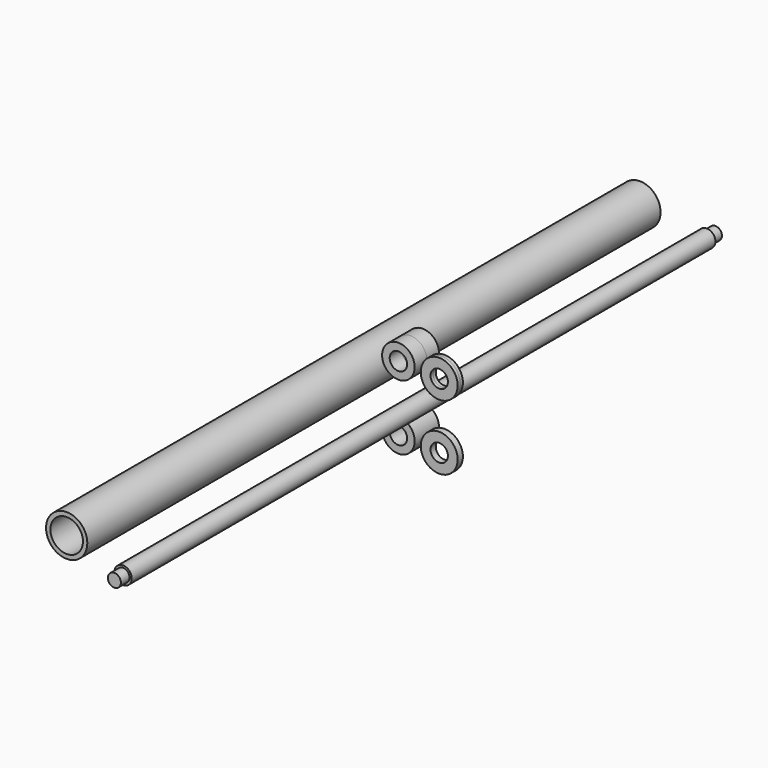
from build123d import *

# Parameters (mm, degrees)
F0_R      = 47.5
F0_R_2    = 37.5
F1_DEPTH  = 825
F2_R      = 37.5
F2_R_2    = 20
F3_DEPTH  = 35
F4_R      = 42.5
F4_R_2    = 20
F5_DEPTH  = 7.5
F6_R      = 20
F7_DEPTH  = 840
F8_R      = 15
F9_DEPTH  = 25
F10_R     = 15
F11_DEPTH = 25


with BuildPart() as f1:
    # F0 (on Front) → F1 (new body, symmetric)
    with BuildSketch(Plane.XZ):
        with Locations((-56.813729, 0)):
            Circle(F0_R)
        with Locations((-56.813729, 0)):
            Circle(F0_R_2, mode=Mode.SUBTRACT)
    extrude(amount=F1_DEPTH, both=True)


with BuildPart() as f3:
    # F2 (on Front) → F3 (new body, symmetric)
    with BuildSketch(Plane.XZ):
        with Locations((75, 75)):
            Circle(F2_R)
        with Locations((75, 75)):
            Circle(F2_R_2, mode=Mode.SUBTRACT)
        with Locations((75, -75)):
            Circle(F2_R)
        with Locations((75, -75)):
            Circle(F2_R_2, mode=Mode.SUBTRACT)
    extrude(amount=F3_DEPTH, both=True)


with BuildPart() as f5:
    # F4 (on face) → F5 (new body, symmetric)
    with BuildSketch(Plane.XZ.offset(35)):
        with Locations((175, 75)):
            Circle(F4_R)
        with Locations((175, 75)):
            Circle(F4_R_2, mode=Mode.SUBTRACT)
        with Locations((175, -75)):
            Circle(F4_R)
        with Locations((175, -75)):
            Circle(F4_R_2, mode=Mode.SUBTRACT)
    extrude(amount=F5_DEPTH, both=True)


with BuildPart() as f7:
    # F6 (on face) → F7 (new body, symmetric)
    with BuildSketch(Plane.XZ.offset(42.5)):
        with Locations((119.005217, 0)):
            Circle(F6_R)
    extrude(amount=F7_DEPTH, both=True)

    # F8 (on face) → F9 (join)
    with BuildSketch(Plane.XZ.offset(882.5)):
        with Locations((119.005217, 0)):
            Circle(F8_R)
    extrude(amount=F9_DEPTH)

    # F10 (on face) → F11 (join)
    with BuildSketch(Plane(origin=(0, 797.5, 0), x_dir=(-1, 0, 0), z_dir=(0, 1, 0))):
        with Locations((-119.005217, 0)):
            Circle(F10_R)
    extrude(amount=F11_DEPTH)


solid = Compound([f1.part, f3.part, f5.part, f7.part])
